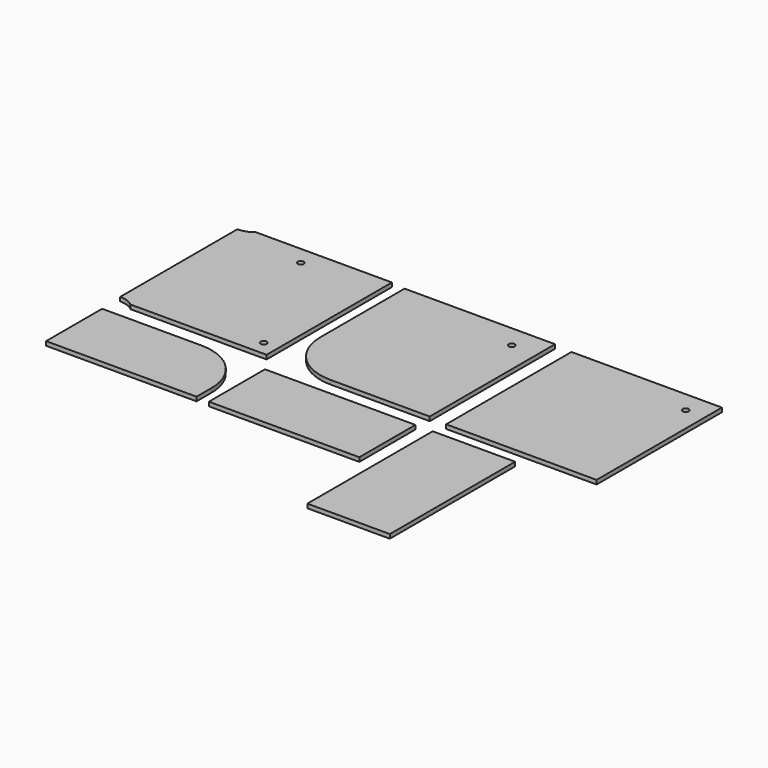
from build123d import *

# Parameters (mm, degrees)
F0_W      = 73
F0_H      = 76
F1_DEPTH  = 2
F3_DEPTH  = 2
F5_DEPTH  = 2
F6_W      = 73
F6_H      = 34
F7_DEPTH  = 2
F8_W      = 73
F8_H      = 76
F9_DEPTH  = 2
F10_W     = 40
F10_H     = 76
F11_DEPTH = 2
F13_R     = 1.5
F14_DEPTH = 3
F16_DEPTH = 25


with BuildPart() as f1:
    # F0 (on Top) → F1 (new body)
    with BuildSketch(Plane.XY):
        with Locations((-43.4057699293, 47.692308493)):
            Rectangle(F0_W, F0_H)
    extrude(amount=F1_DEPTH)


with BuildPart() as f3:
    # F2 (on Top) → F3 (new body)
    with BuildSketch(Plane.XY):
        with BuildLine():
            Line((73.003411293, 84.7474151826), (0.003411293, 84.7474151826))
            Line((0.003411293, 84.7474151826), (0.003411293, 33.7474151826))
            ThreePointArc((0.003411293, 33.7474151826), (7.3257417634, 16.069745653), (25.003411293, 8.7474151826))
            Line((25.003411293, 8.7474151826), (73.003411293, 8.7474151826))
            Line((73.003411293, 8.7474151826), (73.003411293, 84.7474151826))
        make_face()
    extrude(amount=F3_DEPTH)


with BuildPart() as f5:
    # F4 (on Top) → F5 (new body)
    with BuildSketch(Plane.XY):
        with BuildLine():
            Line((-31.1469516055, 0.2639060989), (-79.1469516055, 0.2639060989))
            Line((-79.1469516055, 0.2639060989), (-79.1469516055, -33.7360939011))
            Line((-79.1469516055, -33.7360939011), (-6.1469516055, -33.7360939011))
            Line((-6.1469516055, -33.7360939011), (-6.1469516055, -24.7360939011))
            ThreePointArc((-6.1469516055, -24.7360939011), (-13.4692820759, -7.0584243714), (-31.1469516055, 0.2639060989))
        make_face()
    extrude(amount=F5_DEPTH)


with BuildPart() as f7:
    # F6 (on Top) → F7 (new body)
    with BuildSketch(Plane.XY):
        with Locations((36.5447524944, -17)):
            Rectangle(F6_W, F6_H)
    extrude(amount=F7_DEPTH)


with BuildPart() as f9:
    # F8 (on Top) → F9 (new body)
    with BuildSketch(Plane.XY):
        with Locations((118.3430621624, 45.6581593603)):
            Rectangle(F8_W, F8_H)
    extrude(amount=F9_DEPTH)


with BuildPart() as f11:
    # F10 (on Top) → F11 (new body)
    with BuildSketch(Plane.XY):
        with Locations((101.4428705918, -38)):
            Rectangle(F10_W, F10_H)
    extrude(amount=F11_DEPTH)


with BuildPart() as f11b:
    # F10 (on Top) → F11, piece 2 (new body)
    with BuildSketch(Plane.XY):
        with Locations((148.2472270727, -38.0005940096)):
            Rectangle(F10_W, F10_H)
    extrude(amount=F11_DEPTH)


with BuildPart() as f14_tool:
    # F13 (on face) → F14 (new body)
    with BuildSketch(Plane.XY.offset(2)):
        with Locations((60.7747882605, 73.784686625)):
            Circle(F13_R)
        with Locations((145.4593382223, 73.4302078024)):
            Circle(F13_R)
        with Locations((-13.9057699293, 16.692308493)):
            Circle(F13_R)
        with Locations((-43.9057699293, 76.692308493)):
            Circle(F13_R)
    extrude(amount=-F14_DEPTH)


with BuildPart() as f1_1:
    add(f1.part)

    # F14: cut by f14_tool
    add(f14_tool.part, mode=Mode.SUBTRACT)

    # F15 (on face) → F16 (cut)
    with BuildSketch(Plane.XY.offset(2)):
        with BuildLine():
            Line((-72.9057699293, 85.692308493), (-79.9057699293, 85.692308493))
            Line((-79.9057699293, 85.692308493), (-79.9057699293, 83.192308493))
            ThreePointArc((-79.9057699293, 83.192308493), (-76.1892527425, 83.8360603698), (-72.9057699293, 85.692308493))
        make_face()
        with BuildLine():
            ThreePointArc((-72.9057699293, 9.692308493), (-76.1892527425, 11.5485566161), (-79.9057699293, 12.192308493))
            Line((-79.9057699293, 12.192308493), (-79.9057699293, 9.692308493))
            Line((-79.9057699293, 9.692308493), (-72.9057699293, 9.692308493))
        make_face()
    extrude(amount=-F16_DEPTH, mode=Mode.SUBTRACT)


with BuildPart() as f3_1:
    add(f3.part)

    # F14: cut by f14_tool
    add(f14_tool.part, mode=Mode.SUBTRACT)


with BuildPart() as f9_1:
    add(f9.part)

    # F14: cut by f14_tool
    add(f14_tool.part, mode=Mode.SUBTRACT)


solid = Compound([f5.part, f7.part, f11.part, f1_1.part, f3_1.part, f9_1.part])
